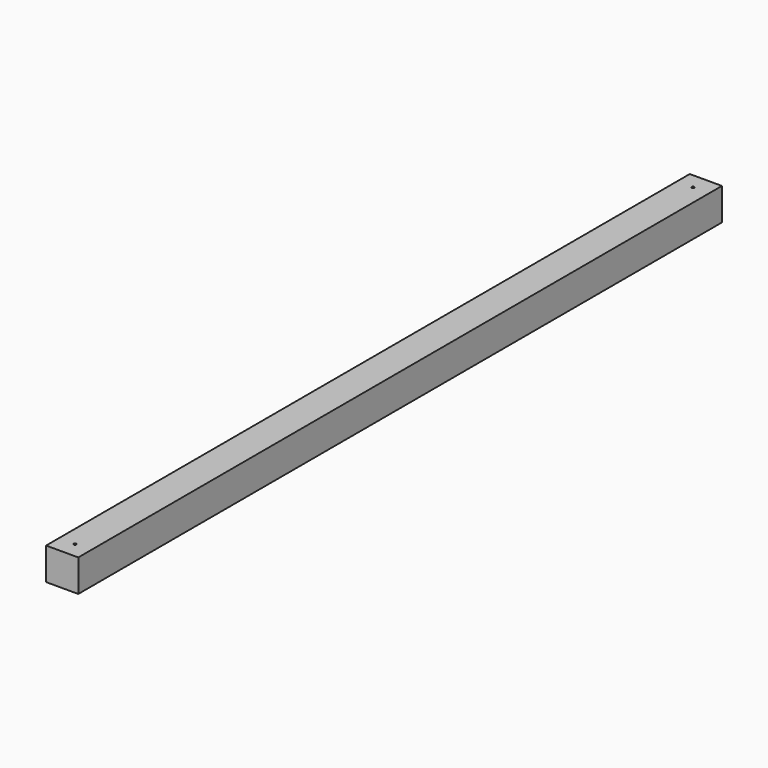
from build123d import *

# Parameters (mm, degrees)
F3_W     = 60
F3_H     = 60
F4_DEPTH = 1500
F6_D     = 5
F6_DEPTH = 12
F6_TIP   = 1.5021515476


with BuildPart() as f4:
    # F3 (on Front) → F4 (new body)
    with BuildSketch(Plane.XZ):
        with Locations((30, 30)):
            Rectangle(F3_W, F3_H)
    extrude(amount=F4_DEPTH)

    # F6
    with Locations(Plane.XY.offset(60)):
        with Locations((30, -1470), (30, -30)):
            Hole(F6_D / 2, depth=F6_DEPTH)
            with Locations((0, 0, -(F6_DEPTH + F6_TIP / 2))):  # 118° drill point
                Cone(0, F6_D / 2, F6_TIP, mode=Mode.SUBTRACT)


solid = f4.part
